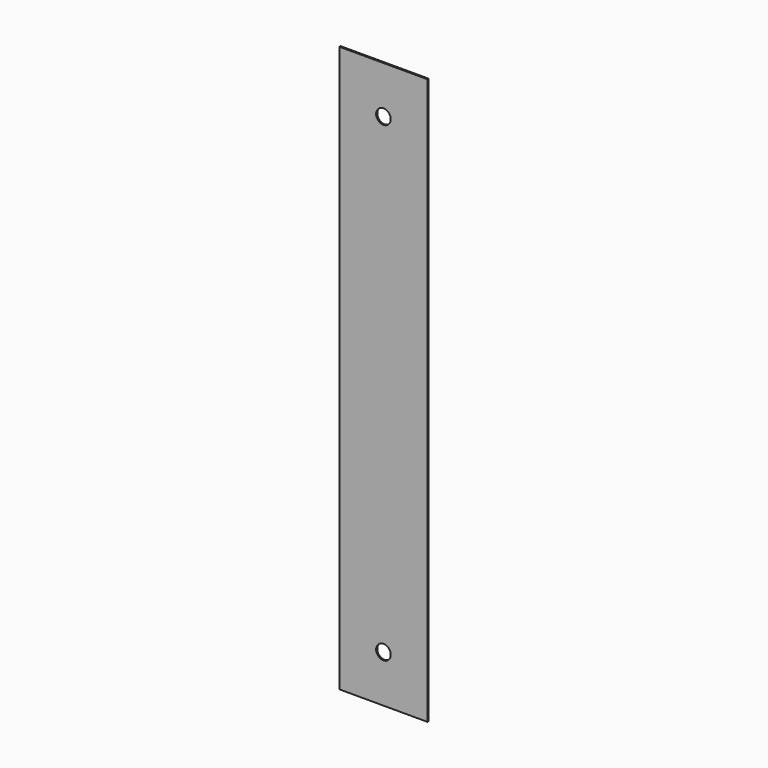
from build123d import *

# Parameters (mm, degrees)
F0_W     = 47.498
F0_H     = 304.8
F1_DEPTH = 0.762
F2_R     = 3.937
F3_DEPTH = 12.7


with BuildPart() as f1:
    # F0 (on Front) → F1 (new body)
    with BuildSketch(Plane.XZ):
        Rectangle(F0_W, F0_H)
    extrude(amount=F1_DEPTH)

    # F2 (on Front) → F3 (cut, symmetric)
    with BuildSketch(Plane.XZ):
        with Locations((0, 127)):
            Circle(F2_R)
        with Locations((0, -127)):
            Circle(F2_R)
    extrude(amount=F3_DEPTH, both=True, mode=Mode.SUBTRACT)


solid = f1.part
